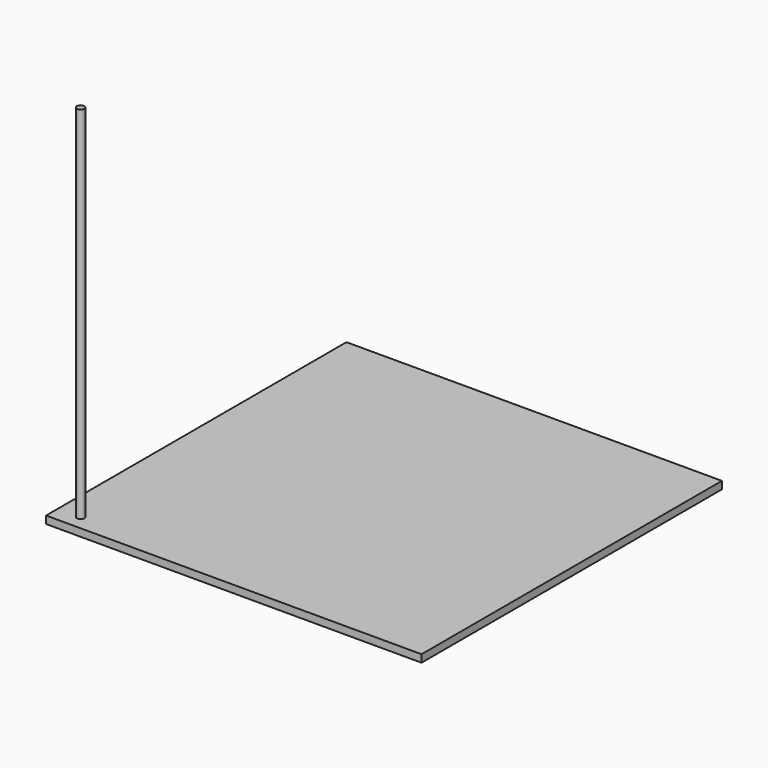
from build123d import *

# Parameters (mm, degrees)
F0_W     = 500
F0_H     = 500
F1_DEPTH = 10
F2_R     = 5
F3_DEPTH = 480


with BuildPart() as f1:
    # F0 (on Top) → F1 (new body)
    with BuildSketch(Plane.XY):
        Rectangle(F0_W, F0_H)
    extrude(amount=F1_DEPTH)


with BuildPart() as f3:
    # F2 (on face) → F3 (new body)
    with BuildSketch(Plane.XY.offset(10)):
        with Locations((-220, -230)):
            Circle(F2_R)
    extrude(amount=F3_DEPTH)


solid = Compound([f1.part, f3.part])
